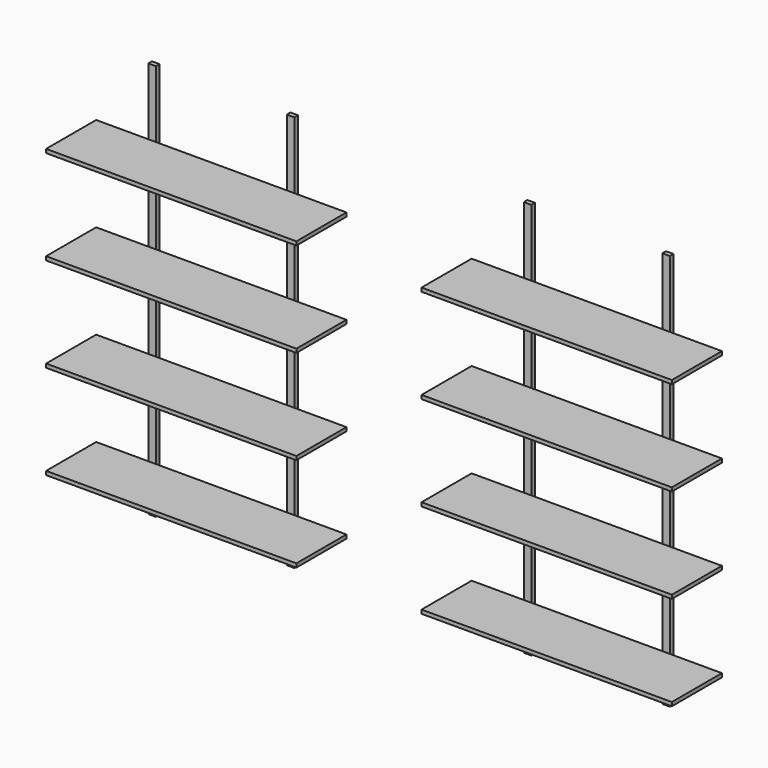
from build123d import *

# Parameters (mm, degrees)
OBJ1_W        = 1200
OBJ1_H        = 300
OBJ1_DEPTH    = 18
OBJ2_W        = 36
OBJ2_H        = 22
OBJ2_DEPTH    = 1902
OBJ3_W     = 36
OBJ3_H     = 22
OBJ3_DEPTH = 1902
OBJ4_W     = 1200
OBJ4_H     = 300
OBJ4_DEPTH = 18
OBJ5_W     = 1200
OBJ5_H     = 300
OBJ5_DEPTH = 18
OBJ6_W     = 1200
OBJ6_H     = 300
OBJ6_DEPTH = 18
OBJ7_W     = 1200
OBJ7_H     = 300
OBJ7_DEPTH = 18
OBJ8_W     = 1200
OBJ8_H     = 300
OBJ8_DEPTH = 18
OBJ9_W     = 1200
OBJ9_H     = 300
OBJ9_DEPTH = 18
OBJ10_W     = 1200
OBJ10_H     = 300
OBJ10_DEPTH = 18
OBJ11_W     = 36
OBJ11_H     = 22
OBJ11_DEPTH = 1902
OBJ12_W     = 36
OBJ12_H     = 22
OBJ12_DEPTH = 1902


with BuildPart() as obj1:
    # obj1 → obj1 (new body)
    with BuildSketch(Plane.XY.offset(205)):
        with Locations((600, 150)):
            Rectangle(OBJ1_W, OBJ1_H)
    extrude(amount=OBJ1_DEPTH)


with BuildPart() as obj2:
    # obj2 → obj2 (new body)
    with BuildSketch(Plane(origin=(250, 300, 0), x_dir=(1, 0, 0), z_dir=(0, 0, 1))):
        with Locations((18, 11)):
            Rectangle(OBJ2_W, OBJ2_H)
    extrude(amount=OBJ2_DEPTH)


with BuildPart() as obj3:
    # obj3 → obj3 (new body)
    with BuildSketch(Plane(origin=(914, 300, 0), x_dir=(1, 0, 0), z_dir=(0, 0, 1))):
        with Locations((18, 11)):
            Rectangle(OBJ3_W, OBJ3_H)
    extrude(amount=OBJ3_DEPTH)


with BuildPart() as obj4:
    # obj4 → obj4 (new body)
    with BuildSketch(Plane.XY.offset(658)):
        with Locations((600, 150)):
            Rectangle(OBJ4_W, OBJ4_H)
    extrude(amount=OBJ4_DEPTH)


with BuildPart() as obj5:
    # obj5 → obj5 (new body)
    with BuildSketch(Plane.XY.offset(1111)):
        with Locations((600, 150)):
            Rectangle(OBJ5_W, OBJ5_H)
    extrude(amount=OBJ5_DEPTH)


with BuildPart() as obj6:
    # obj6 → obj6 (new body)
    with BuildSketch(Plane.XY.offset(1564)):
        with Locations((600, 150)):
            Rectangle(OBJ6_W, OBJ6_H)
    extrude(amount=OBJ6_DEPTH)


with BuildPart() as obj7:
    # obj7 → obj7 (new body)
    with BuildSketch(Plane(origin=(1800, 0, 205), x_dir=(1, 0, 0), z_dir=(0, 0, 1))):
        with Locations((600, 150)):
            Rectangle(OBJ7_W, OBJ7_H)
    extrude(amount=OBJ7_DEPTH)


with BuildPart() as obj8:
    # obj8 → obj8 (new body)
    with BuildSketch(Plane(origin=(1800, 0, 658), x_dir=(1, 0, 0), z_dir=(0, 0, 1))):
        with Locations((600, 150)):
            Rectangle(OBJ8_W, OBJ8_H)
    extrude(amount=OBJ8_DEPTH)


with BuildPart() as obj9:
    # obj9 → obj9 (new body)
    with BuildSketch(Plane(origin=(1800, 0, 1111), x_dir=(1, 0, 0), z_dir=(0, 0, 1))):
        with Locations((600, 150)):
            Rectangle(OBJ9_W, OBJ9_H)
    extrude(amount=OBJ9_DEPTH)


with BuildPart() as obj10:
    # obj10 → obj10 (new body)
    with BuildSketch(Plane(origin=(1800, 0, 1564), x_dir=(1, 0, 0), z_dir=(0, 0, 1))):
        with Locations((600, 150)):
            Rectangle(OBJ10_W, OBJ10_H)
    extrude(amount=OBJ10_DEPTH)


with BuildPart() as obj11:
    # obj11 → obj11 (new body)
    with BuildSketch(Plane(origin=(2050, 300, 0), x_dir=(1, 0, 0), z_dir=(0, 0, 1))):
        with Locations((18, 11)):
            Rectangle(OBJ11_W, OBJ11_H)
    extrude(amount=OBJ11_DEPTH)


with BuildPart() as obj12:
    # obj12 → obj12 (new body)
    with BuildSketch(Plane(origin=(2714, 300, 0), x_dir=(1, 0, 0), z_dir=(0, 0, 1))):
        with Locations((18, 11)):
            Rectangle(OBJ12_W, OBJ12_H)
    extrude(amount=OBJ12_DEPTH)


solid = Compound([obj1.part, obj2.part, obj3.part, obj4.part, obj5.part, obj6.part, obj7.part, obj8.part, obj9.part, obj10.part, obj11.part, obj12.part])
